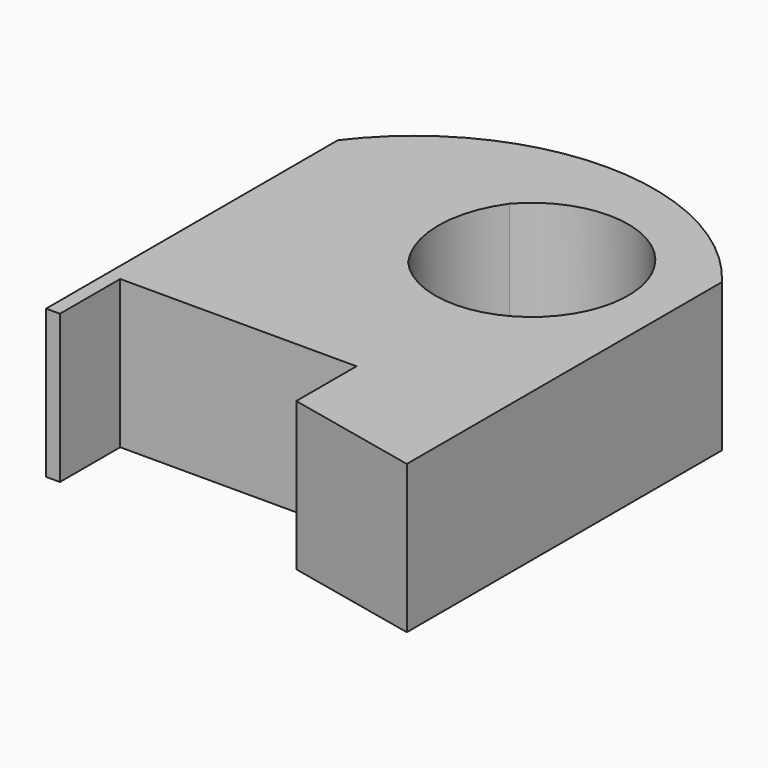
from build123d import *

# Parameters (mm, degrees)
F1_DEPTH = 25.4


with BuildPart() as f1:
    # F0 (on Top) → F1 (new body)
    with BuildSketch(Plane.XY):
        with BuildLine():
            Line((-29.460222, 21.765815), (-29.460222, -40.758722))
            Line((-29.460222, -40.758722), (-27.078502, -40.758722))
            Line((-27.078502, -40.758722), (-27.078502, -27.851582))
            Line((-27.078502, -27.851582), (13.432889, -27.851582))
            Line((13.432889, -27.851582), (13.432889, -40.758722))
            Line((13.432889, -40.758722), (36.388196, -45.760684))
            Line((36.388196, -45.760684), (36.388196, 21.765815))
            ThreePointArc((36.388196, 21.765815), (3.463987, 38.19658), (-29.460222, 21.765815))
        make_face()
        with BuildLine():
            ThreePointArc((0, 21.765815), (29.037834, 10.882908), (0, 0))
            ThreePointArc((0, 0), (-3.508259, 10.882908), (0, 21.765815))
        make_face(mode=Mode.SUBTRACT)
    extrude(amount=F1_DEPTH)


solid = f1.part
